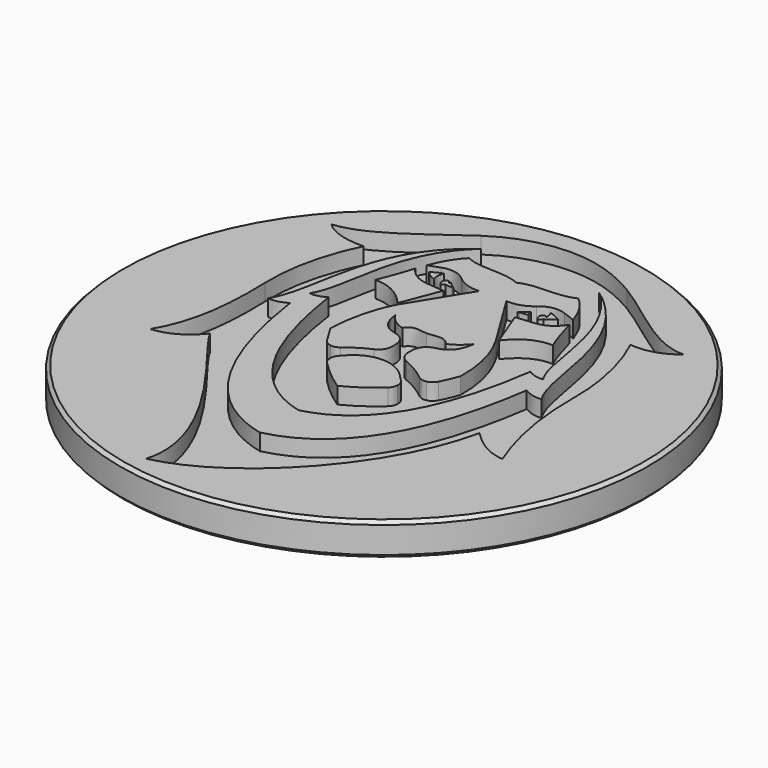
from build123d import *

# Parameters (mm, degrees)
POCKET_DEPTH = 1.25


with BuildPart() as part:
    # Sketch004 (on DatumPlane) → Revolution (revolve)
    with BuildSketch(Plane.YZ):
        Polygon((0, 0), (0, -2.5), (19.75, -2.5), (20, -2.25), (20, -0.25), (19.75, 0), align=None)
    revolve(axis=Axis((0, 0, 0), (0, 0, 1)))

    # Sketch → Pocket (cut)
    with BuildSketch(Plane.XY):
        with BuildLine():
            add(Edge.make_bspline(
                [(-0.357005, 18.233231), (1.639901, 18.233231), (3.483362, 17.547446), (5.167893, 16.541527)],
                knots=[0, 0, 0, 0, 1, 1, 1, 1], degree=3))
            add(Edge.make_bspline(
                [(5.167893, 16.541527), (7.73799, 15.006764), (10.686718, 12.038905), (12.985825, 12.161256)],
                knots=[0, 0, 0, 0, 1, 1, 1, 1], degree=3))
            add(Edge.make_bspline(
                [(12.985825, 12.161256), (12.18457, 11.446432), (10.984286, 11.017853), (9.753323, 11.153175)],
                knots=[0, 0, 0, 0, 1, 1, 1, 1], degree=3))
            add(Edge.make_bspline(
                [(9.753323, 11.153175), (10.809644, 8.960849), (11.401051, 6.329718), (11.37719, 3.848284)],
                knots=[0, 0, 0, 0, 1, 1, 1, 1], degree=3))
            add(Edge.make_bspline(
                [(11.37719, 3.848284), (11.344275, 0.417898), (11.951821, -2.477157), (12.985825, -5.009718)],
                knots=[0, 0, 0, 0, 1, 1, 1, 1], degree=3))
            add(Edge.make_bspline(
                [(12.985825, -5.009718), (11.749909, -4.896423), (10.759099, -4.178444), (9.850844, -3.256488)],
                knots=[0, 0, 0, 0, 1, 1, 1, 1], degree=3))
            add(Edge.make_bspline(
                [(9.850844, -3.256488), (8.412111, -10.0867), (2.001488, -16.937479), (-3.506579, -18.14048)],
                knots=[0, 0, 0, 0, 1, 1, 1, 1], degree=3))
            add(Edge.make_bspline(
                [(-3.506579, -18.14048), (-1.985239, -12.997122), (-9.682589, -5.145098), (-10.560272, -3.256254)],
                knots=[0, 0, 0, 0, 1, 1, 1, 1], degree=3))
            add(Edge.make_bspline(
                [(-10.560272, -3.256254), (-11.482642, -4.357121), (-12.527831, -4.941472), (-13.695733, -5.009718)],
                knots=[0, 0, 0, 0, 1, 1, 1, 1], degree=3))
            add(Edge.make_bspline(
                [(-13.695733, -5.009718), (-12.454384, -3.003547), (-11.952402, -0.135602), (-12.091412, 3.850971)],
                knots=[0, 0, 0, 0, 1, 1, 1, 1], degree=3))
            add(Edge.make_bspline(
                [(-12.091412, 3.850971), (-12.184352, 6.517276), (-11.497821, 9.017233), (-10.464776, 11.159018)],
                knots=[0, 0, 0, 0, 1, 1, 1, 1], degree=3))
            add(Edge.make_bspline(
                [(-10.464776, 11.159018), (-11.664474, 11.08902), (-12.979322, 11.42306), (-13.695733, 12.161256)],
                knots=[0, 0, 0, 0, 1, 1, 1, 1], degree=3))
            add(Edge.make_bspline(
                [(-13.695733, 12.161256), (-11.151414, 12.376276), (-8.493383, 14.795893), (-5.878759, 16.543689)],
                knots=[0, 0, 0, 0, 1, 1, 1, 1], degree=3))
            add(Edge.make_bspline(
                [(-5.878759, 16.543689), (-4.242003, 17.637661), (-2.35407, 18.233231), (-0.357005, 18.233231)],
                knots=[0, 0, 0, 0, 1, 1, 1, 1], degree=3))
        make_face()
        with BuildLine():
            add(Edge.make_bspline(
                [(2.669218, 10.363269), (2.59444, 10.474227), (2.543789, 10.614925), (2.52829, 10.770463)],
                knots=[0, 0, 0, 0, 1, 1, 1, 1], degree=3))
            add(Edge.make_bspline(
                [(2.52829, 10.770463), (2.336445, 10.569233), (2.133095, 10.401599), (1.921171, 10.267854)],
                knots=[0, 0, 0, 0, 1, 1, 1, 1], degree=3))
            add(Edge.make_bspline(
                [(1.921171, 10.267854), (2.044949, 10.28363)],
                knots=[0, 0, 2.339632, 2.339632], degree=1))
            add(Edge.make_bspline(
                [(2.044949, 10.28363), (2.669218, 10.363269)],
                knots=[0, 0, 11.799983, 11.799983], degree=1))
        make_face(mode=Mode.SUBTRACT)
        with BuildLine():
            add(Edge.make_bspline(
                [(4.368662, 11.019255), (4.211117, 11.099946), (4.053358, 11.180754), (3.895866, 11.261445)],
                knots=[0, 0, 0, 0, 1, 1, 1, 1], degree=3))
            add(Edge.make_bspline(
                [(3.895866, 11.261445), (3.767987, 11.326827), (3.64112, 11.363287), (3.516543, 11.371117)],
                knots=[0, 0, 0, 0, 1, 1, 1, 1], degree=3))
            add(Edge.make_bspline(
                [(3.516543, 11.371117), (3.603731, 11.237664), (3.656566, 11.062961), (3.656566, 10.871663)],
                knots=[0, 0, 0, 0, 1, 1, 1, 1], degree=3))
            add(Edge.make_bspline(
                [(3.656566, 10.871663), (3.656566, 10.83941), (3.655128, 10.807624), (3.652198, 10.776482)],
                knots=[0, 0, 0, 0, 1, 1, 1, 1], degree=3))
            add(Edge.make_bspline(
                [(3.652198, 10.776482), (3.612732, 10.85653), (3.544984, 10.909408), (3.467969, 10.909408)],
                knots=[0, 0, 0, 0, 1, 1, 1, 1], degree=3))
            add(Edge.make_bspline(
                [(3.467969, 10.909408), (3.346162, 10.909408), (3.247363, 10.777183), (3.247363, 10.614048)],
                knots=[0, 0, 0, 0, 1, 1, 1, 1], degree=3))
            add(Edge.make_bspline(
                [(3.247363, 10.614048), (3.247363, 10.450913), (3.346162, 10.318629), (3.467969, 10.318629)],
                knots=[0, 0, 0, 0, 1, 1, 1, 1], degree=3))
            add(Edge.make_bspline(
                [(3.467969, 10.318629), (3.56256, 10.318629), (3.64325, 10.398444), (3.674568, 10.51057)],
                knots=[0, 0, 0, 0, 1, 1, 1, 1], degree=3))
            add(Edge.make_bspline(
                [(3.674568, 10.51057), (3.938368, 10.592254), (4.168242, 10.760589), (4.368662, 11.019255)],
                knots=[0, 0, 0, 0, 1, 1, 1, 1], degree=3))
        make_face(mode=Mode.SUBTRACT)
        with BuildLine():
            add(Edge.make_bspline(
                [(-3.804733, 10.826088), (-3.926487, 10.826088), (-4.025232, 10.693863), (-4.025232, 10.530728)],
                knots=[0, 0, 0, 0, 1, 1, 1, 1], degree=3))
            add(Edge.make_bspline(
                [(-4.025232, 10.530728), (-4.025232, 10.367593), (-3.926487, 10.235426), (-3.804733, 10.235426)],
                knots=[0, 0, 0, 0, 1, 1, 1, 1], degree=3))
            add(Edge.make_bspline(
                [(-3.804733, 10.235426), (-3.731659, 10.235426), (-3.666947, 10.282871), (-3.626895, 10.356083)],
                knots=[0, 0, 0, 0, 1, 1, 1, 1], degree=3))
            add(Edge.make_bspline(
                [(-3.626895, 10.356083), (-3.058922, 10.28363)],
                knots=[0, 0, 10.735851, 10.735851], degree=1))
            add(Edge.make_bspline(
                [(-3.058922, 10.28363), (-2.935144, 10.267854)],
                knots=[0, 0, 2.339632, 2.339632], degree=1))
            add(Edge.make_bspline(
                [(-2.935144, 10.267854), (-3.147016, 10.401599), (-3.350418, 10.569233), (-3.542264, 10.770463)],
                knots=[0, 0, 0, 0, 1, 1, 1, 1], degree=3))
            add(Edge.make_bspline(
                [(-3.542264, 10.770463), (-3.549454, 10.698128), (-3.56426, 10.629006), (-3.585618, 10.564558)],
                knots=[0, 0, 0, 0, 1, 1, 1, 1], degree=3))
            add(Edge.make_bspline(
                [(-3.585618, 10.564558), (-3.598081, 10.711742), (-3.691447, 10.826088), (-3.804733, 10.826088)],
                knots=[0, 0, 0, 0, 1, 1, 1, 1], degree=3))
        make_face(mode=Mode.SUBTRACT)
        with BuildLine():
            add(Edge.make_bspline(
                [(-5.382689, 11.019255), (-5.157928, 10.729271), (-4.896418, 10.552873), (-4.5915, 10.484744)],
                knots=[0, 0, 0, 0, 1, 1, 1, 1], degree=3))
            add(Edge.make_bspline(
                [(-4.5915, 10.484744), (-4.641672, 10.59798), (-4.670592, 10.730322), (-4.670592, 10.871663)],
                knots=[0, 0, 0, 0, 1, 1, 1, 1], degree=3))
            add(Edge.make_bspline(
                [(-4.670592, 10.871663), (-4.670592, 11.062961), (-4.617758, 11.237664), (-4.530463, 11.371117)],
                knots=[0, 0, 0, 0, 1, 1, 1, 1], degree=3))
            add(Edge.make_bspline(
                [(-4.530463, 11.371117), (-4.655094, 11.363287), (-4.781961, 11.326827), (-4.90984, 11.261445)],
                knots=[0, 0, 0, 0, 1, 1, 1, 1], degree=3))
            add(Edge.make_bspline(
                [(-4.90984, 11.261445), (-5.067438, 11.180754), (-5.225143, 11.099946), (-5.382689, 11.019255)],
                knots=[0, 0, 0, 0, 1, 1, 1, 1], degree=3))
        make_face(mode=Mode.SUBTRACT)
        with BuildLine():
            add(Edge.make_bspline(
                [(-2.820208, -1.858917), (-2.115195, -2.588232), (-1.34579, -3.231188), (-0.506987, -3.781358)],
                knots=[0, 0, 0, 0, 1, 1, 1, 1], degree=3))
            add(Edge.make_bspline(
                [(-0.506987, -3.781358), (0.420762, -3.314625), (1.254133, -2.750373), (1.977734, -2.072826)],
                knots=[0, 0, 0, 0, 1, 1, 1, 1], degree=3))
            add(Edge.make_bspline(
                [(1.977734, -2.072826), (2.136983, -1.923773), (2.222999, -1.72973), (2.231521, -1.500161)],
                knots=[0, 0, 0, 0, 1, 1, 1, 1], degree=3))
            add(Edge.make_bspline(
                [(2.231521, -1.500161), (2.240096, -1.27065), (2.16878, -1.069361), (2.021035, -0.90646)],
                knots=[0, 0, 0, 0, 1, 1, 1, 1], degree=3))
            add(Edge.make_bspline(
                [(2.021035, -0.90646), (1.812625, -0.676833), (1.594949, -0.458366), (1.368484, -0.250942)],
                knots=[0, 0, 0, 0, 1, 1, 1, 1], degree=3))
            add(Edge.make_bspline(
                [(1.368484, -0.250942), (0.238664, 0.784542), (-1.389411, 0.74744), (-2.479073, -0.338586)],
                knots=[0, 0, 0, 0, 1, 1, 1, 1], degree=3))
            add(Edge.make_bspline(
                [(-2.479073, -0.338586), (-2.604289, -0.463449), (-2.726096, -0.592812), (-2.844388, -0.727258)],
                knots=[0, 0, 0, 0, 1, 1, 1, 1], degree=3))
            add(Edge.make_bspline(
                [(-2.844388, -0.727258), (-2.984144, -0.886185), (-3.052478, -1.077951), (-3.047791, -1.298696)],
                knots=[0, 0, 0, 0, 1, 1, 1, 1], degree=3))
            add(Edge.make_bspline(
                [(-3.047791, -1.298696), (-3.043051, -1.519326), (-2.966675, -1.707468), (-2.820208, -1.858917)],
                knots=[0, 0, 0, 0, 1, 1, 1, 1], degree=3))
        make_face(mode=Mode.SUBTRACT)
        with BuildLine():
            add(Edge.make_bspline(
                [(3.326669, 6.73627), (4.146778, 7.743474), (5.094073, 8.296858), (6.2142, 8.234456)],
                knots=[0, 0, 0, 0, 1, 1, 1, 1], degree=3))
            add(Edge.make_bspline(
                [(6.2142, 8.234456), (5.835569, 9.057666), (5.604577, 9.997619), (5.326982, 10.900585)],
                knots=[0, 0, 0, 0, 1, 1, 1, 1], degree=3))
            add(Edge.make_bspline(
                [(5.326982, 10.900585), (5.194789, 10.720389)],
                knots=[0, 0, 3.958709, 3.958709], degree=1))
            add(Edge.make_bspline(
                [(5.194789, 10.720389), (4.782232, 10.157774), (4.238226, 9.840444), (3.582373, 9.779736)],
                knots=[0, 0, 0, 0, 1, 1, 1, 1], degree=3))
            add(Edge.make_bspline(
                [(3.582373, 9.779736), (3.124544, 9.737375), (2.666715, 9.694955), (2.208992, 9.652535)],
                knots=[0, 0, 0, 0, 1, 1, 1, 1], degree=3))
            add(Edge.make_bspline(
                [(2.208992, 9.652535), (3.326669, 6.73627)],
                knots=[0, 0, 54.143126, 54.143126], degree=1))
        make_face(mode=Mode.SUBTRACT)
        with BuildLine():
            add(Edge.make_bspline(
                [(-6.29169, 10.83345), (-6.589364, 9.957595), (-6.849703, 9.05714), (-7.22812, 8.234456)],
                knots=[0, 0, 0, 0, 1, 1, 1, 1], degree=3))
            add(Edge.make_bspline(
                [(-7.22812, 8.234456), (-5.956786, 8.218212), (-5.085174, 7.575431), (-4.343785, 6.728382)],
                knots=[0, 0, 0, 0, 1, 1, 1, 1], degree=3))
            add(Edge.make_bspline(
                [(-4.343785, 6.728382), (-3.223019, 9.652535)],
                knots=[0, 0, 54.290054, 54.290054], degree=1))
            add(Edge.make_bspline(
                [(-3.223019, 9.652535), (-3.680741, 9.694955), (-4.138518, 9.737375), (-4.596294, 9.779736)],
                knots=[0, 0, 0, 0, 1, 1, 1, 1], degree=3))
            add(Edge.make_bspline(
                [(-4.596294, 9.779736), (-5.252147, 9.840444), (-5.796258, 10.157774), (-6.208816, 10.720389)],
                knots=[0, 0, 0, 0, 1, 1, 1, 1], degree=3))
            add(Edge.make_bspline(
                [(-6.208816, 10.720389), (-6.29169, 10.83345)],
                knots=[0, 0, 2.483014, 2.483014], degree=1))
        make_face(mode=Mode.SUBTRACT)
        with BuildLine():
            add(Edge.make_bspline(
                [(-0.506987, 13.150523), (-1.884629, 13.780158), (-3.262272, 13.231389), (-4.639914, 13.861024)],
                knots=[0, 0, 0, 0, 1, 1, 1, 1], degree=3))
            add(Edge.make_bspline(
                [(-4.639914, 13.861024), (-5.284636, 13.218535), (-5.695329, 12.42191), (-6.025226, 11.57223)],
                knots=[0, 0, 0, 0, 1, 1, 1, 1], degree=3))
            add(Edge.make_bspline(
                [(-6.025226, 11.57223), (-5.193879, 11.881438)],
                knots=[0, 0, 16.481691, 16.481691], degree=1))
            add(Edge.make_bspline(
                [(-5.193879, 11.881438), (-4.54282, 12.123628), (-3.880363, 11.998706), (-3.340352, 11.53209)],
                knots=[0, 0, 0, 0, 1, 1, 1, 1], degree=3))
            add(Edge.make_bspline(
                [(-3.340352, 11.53209), (-2.865053, 11.121448), (-2.278333, 10.915602), (-1.636168, 10.944232)],
                knots=[0, 0, 0, 0, 1, 1, 1, 1], degree=3))
            add(Edge.make_bspline(
                [(-1.636168, 10.944232), (-1.602454, 10.945751), (-1.56874, 10.94727), (-1.535026, 10.94879)],
                knots=[0, 0, 0, 0, 1, 1, 1, 1], degree=3))
            add(Edge.make_bspline(
                [(-1.535026, 10.94879), (-2.430872, 9.494776), (-3.326664, 8.040763), (-4.222403, 6.586807)],
                knots=[0, 0, 0, 0, 1, 1, 1, 1], degree=3))
            add(Edge.make_bspline(
                [(-4.222403, 6.586807), (-5.045495, 5.016928), (-5.346791, 3.38342), (-5.433127, 1.723852)],
                knots=[0, 0, 0, 0, 1, 1, 1, 1], degree=3))
            add(Edge.make_bspline(
                [(-5.433127, 1.723852), (-5.174066, 1.257528), (-4.901425, 0.809433), (-4.614775, 0.380387)],
                knots=[0, 0, 0, 0, 1, 1, 1, 1], degree=3))
            add(Edge.make_bspline(
                [(-4.614775, 0.380387), (-4.477469, 0.174949), (-4.292494, 0.052014), (-4.062941, 0.013626)],
                knots=[0, 0, 0, 0, 1, 1, 1, 1], degree=3))
            add(Edge.make_bspline(
                [(-4.062941, 0.013626), (-3.833493, -0.024704), (-3.623486, 0.032207), (-3.436647, 0.183363)],
                knots=[0, 0, 0, 0, 1, 1, 1, 1], degree=3))
            add(Edge.make_bspline(
                [(-3.436647, 0.183363), (-2.893548, 0.623161), (-2.323498, 0.97473), (-1.725646, 1.234448)],
                knots=[0, 0, 0, 0, 1, 1, 1, 1], degree=3))
            add(Edge.make_bspline(
                [(-1.725646, 1.234448), (-1.35314, 1.396181), (-1.120764, 1.771238), (-1.120764, 2.210802)],
                knots=[0, 0, 0, 0, 1, 1, 1, 1], degree=3))
            add(Edge.make_bspline(
                [(-1.120764, 2.210802), (-1.120764, 2.501488)],
                knots=[0, 0, 4.975, 4.975], degree=1))
            add(Edge.make_bspline(
                [(-1.120764, 2.501488), (-1.120764, 3.009122), (-1.418438, 3.438753), (-1.864337, 3.574659)],
                knots=[0, 0, 0, 0, 1, 1, 1, 1], degree=3))
            add(Edge.make_bspline(
                [(-1.864337, 3.574659), (-2.022362, 3.622863), (-2.180546, 3.670951), (-2.338624, 3.719096)],
                knots=[0, 0, 0, 0, 1, 1, 1, 1], degree=3))
            add(Edge.make_bspline(
                [(-2.338624, 3.719096), (-2.82106, 3.866163), (-3.175563, 4.231113), (-3.339979, 4.750023)],
                knots=[0, 0, 0, 0, 1, 1, 1, 1], degree=3))
            add(Edge.make_bspline(
                [(-3.339979, 4.750023), (-3.407248, 4.962414), (-3.452892, 5.192801), (-3.483943, 5.435516)],
                knots=[0, 0, 0, 0, 1, 1, 1, 1], degree=3))
            add(Edge.make_bspline(
                [(-3.483943, 5.435516), (-3.164112, 4.946404), (-2.760556, 4.555103), (-2.133623, 4.425448)],
                knots=[0, 0, 0, 0, 1, 1, 1, 1], degree=3))
            add(Edge.make_bspline(
                [(-2.133623, 4.425448), (-1.662266, 5.094523), (-1.190642, 4.781634), (-0.579315, 4.776842)],
                knots=[0, 0, 0, 0, 1, 1, 1, 1], degree=3))
            add(Edge.make_bspline(
                [(-0.579315, 4.776842), (-0.005856, 4.772402), (0.70885, 5.119706), (1.119543, 4.425448)],
                knots=[0, 0, 0, 0, 1, 1, 1, 1], degree=3))
            add(Edge.make_bspline(
                [(1.119543, 4.425448), (1.639688, 4.59577), (2.072644, 4.973282), (2.469969, 5.435516)],
                knots=[0, 0, 0, 0, 1, 1, 1, 1], degree=3))
            add(Edge.make_bspline(
                [(2.469969, 5.435516), (2.422887, 5.150439), (2.356844, 4.8878), (2.267738, 4.65233)],
                knots=[0, 0, 0, 0, 1, 1, 1, 1], degree=3))
            add(Edge.make_bspline(
                [(2.267738, 4.65233), (2.087451, 4.176014), (1.75047, 3.848868), (1.297434, 3.710858)],
                knots=[0, 0, 0, 0, 1, 1, 1, 1], degree=3))
            add(Edge.make_bspline(
                [(1.297434, 3.710858), (1.14841, 3.665458), (0.999334, 3.62), (0.85031, 3.574601)],
                knots=[0, 0, 0, 0, 1, 1, 1, 1], degree=3))
            add(Edge.make_bspline(
                [(0.85031, 3.574601), (0.404571, 3.438694), (0.106843, 3.009122), (0.106843, 2.501488)],
                knots=[0, 0, 0, 0, 1, 1, 1, 1], degree=3))
            add(Edge.make_bspline(
                [(0.106843, 2.501488), (0.106843, 2.21162)],
                knots=[0, 0, 4.961, 4.961], degree=1))
            add(Edge.make_bspline(
                [(0.106843, 2.21162), (0.106843, 1.767791), (0.34412, 1.38952), (0.721845, 1.230826)],
                knots=[0, 0, 0, 0, 1, 1, 1, 1], degree=3))
            add(Edge.make_bspline(
                [(0.721845, 1.230826), (1.390853, 0.950014), (2.023964, 0.583721), (2.609726, 0.104951)],
                knots=[0, 0, 0, 0, 1, 1, 1, 1], degree=3))
            add(Edge.make_bspline(
                [(2.609726, 0.104951), (2.809666, -0.058534), (3.0397, -0.114393), (3.283953, -0.058476)],
                knots=[0, 0, 0, 0, 1, 1, 1, 1], degree=3))
            add(Edge.make_bspline(
                [(3.283953, -0.058476), (3.528154, -0.002559), (3.718721, 0.149357), (3.842605, 0.386872)],
                knots=[0, 0, 0, 0, 1, 1, 1, 1], degree=3))
            add(Edge.make_bspline(
                [(3.842605, 0.386872), (4.060761, 0.805577), (4.253512, 1.25075), (4.4191, 1.723852)],
                knots=[0, 0, 0, 0, 1, 1, 1, 1], degree=3))
            add(Edge.make_bspline(
                [(4.4191, 1.723852), (4.457501, 3.304365), (4.152263, 4.916372), (3.20843, 6.586807)],
                knots=[0, 0, 0, 0, 1, 1, 1, 1], degree=3))
            add(Edge.make_bspline(
                [(3.20843, 6.586807), (2.312637, 8.040763), (1.416898, 9.494776), (0.521052, 10.94879)],
                knots=[0, 0, 0, 0, 1, 1, 1, 1], degree=3))
            add(Edge.make_bspline(
                [(0.521052, 10.94879), (0.554766, 10.94727), (0.588587, 10.945751), (0.622248, 10.944232)],
                knots=[0, 0, 0, 0, 1, 1, 1, 1], degree=3))
            add(Edge.make_bspline(
                [(0.622248, 10.944232), (1.264253, 10.915602), (1.85108, 11.121448), (2.326325, 11.53209)],
                knots=[0, 0, 0, 0, 1, 1, 1, 1], degree=3))
            add(Edge.make_bspline(
                [(2.326325, 11.53209), (2.866336, 11.998706), (3.5289, 12.123628), (4.179906, 11.881438)],
                knots=[0, 0, 0, 0, 1, 1, 1, 1], degree=3))
            add(Edge.make_bspline(
                [(4.179906, 11.881438), (5.119851, 11.531856)],
                knots=[0, 0, 18.634597, 18.634597], degree=1))
            add(Edge.make_bspline(
                [(5.119851, 11.531856), (4.796133, 12.445807), (4.371591, 13.280236), (3.625887, 13.861024)],
                knots=[0, 0, 0, 0, 1, 1, 1, 1], degree=3))
            add(Edge.make_bspline(
                [(3.625887, 13.861024), (2.248245, 13.231389), (0.870709, 13.780158), (-0.506987, 13.150523)],
                knots=[0, 0, 0, 0, 1, 1, 1, 1], degree=3))
        make_face(mode=Mode.SUBTRACT)
        with BuildLine():
            add(Edge.make_bspline(
                [(4.112531, 15.233353), (8.025332, 11.768144), (7.133587, 6.538545), (8.485292, 4.464655)],
                knots=[0, 0, 0, 0, 1, 1, 1, 1], degree=3))
            add(Edge.make_bspline(
                [(8.485292, 4.464655), (8.064638, 4.396935), (7.667899, 4.532433), (7.282184, 4.761709)],
                knots=[0, 0, 0, 0, 1, 1, 1, 1], degree=3))
            add(Edge.make_bspline(
                [(7.282184, 4.761709), (6.288872, -2.289073), (3.84676, -6.621666), (-0.354927, -7.653177)],
                knots=[0, 0, 0, 0, 1, 1, 1, 1], degree=3))
            add(Edge.make_bspline(
                [(-0.354927, -7.653177), (-4.556508, -6.621666), (-6.998726, -2.289073), (-7.992092, 4.761709)],
                knots=[0, 0, 0, 0, 1, 1, 1, 1], degree=3))
            add(Edge.make_bspline(
                [(-7.992092, 4.761709), (-8.37786, 4.532433), (-8.774546, 4.396935), (-9.1952, 4.464655)],
                knots=[0, 0, 0, 0, 1, 1, 1, 1], degree=3))
            add(Edge.make_bspline(
                [(-9.1952, 4.464655), (-7.843495, 6.538545), (-8.735186, 11.768144), (-4.822386, 15.233353)],
                knots=[0, 0, 0, 0, 1, 1, 1, 1], degree=3))
            add(Edge.make_bspline(
                [(-4.822386, 15.233353), (-10.306165, 11.33641), (-9.058532, 4.89709), (-10.728257, 2.422199)],
                knots=[0, 0, 0, 0, 1, 1, 1, 1], degree=3))
            add(Edge.make_bspline(
                [(-10.728257, 2.422199), (-10.234636, 2.345365), (-9.769137, 2.499092), (-9.316474, 2.758927)],
                knots=[0, 0, 0, 0, 1, 1, 1, 1], degree=3))
            add(Edge.make_bspline(
                [(-9.316474, 2.758927), (-8.150863, -5.233911), (-5.285168, -10.145187), (-0.354927, -11.314533)],
                knots=[0, 0, 0, 0, 1, 1, 1, 1], degree=3))
            add(Edge.make_bspline(
                [(-0.354927, -11.314533), (4.57526, -10.145187), (7.440902, -5.233911), (8.606566, 2.758927)],
                knots=[0, 0, 0, 0, 1, 1, 1, 1], degree=3))
            add(Edge.make_bspline(
                [(8.606566, 2.758927), (9.059229, 2.499092), (9.524728, 2.345365), (10.018402, 2.422199)],
                knots=[0, 0, 0, 0, 1, 1, 1, 1], degree=3))
            add(Edge.make_bspline(
                [(10.018402, 2.422199), (8.348624, 4.89709), (9.596257, 11.33641), (4.112531, 15.233353)],
                knots=[0, 0, 0, 0, 1, 1, 1, 1], degree=3))
        make_face(mode=Mode.SUBTRACT)
    extrude(amount=-POCKET_DEPTH, mode=Mode.SUBTRACT)


solid = part.part
